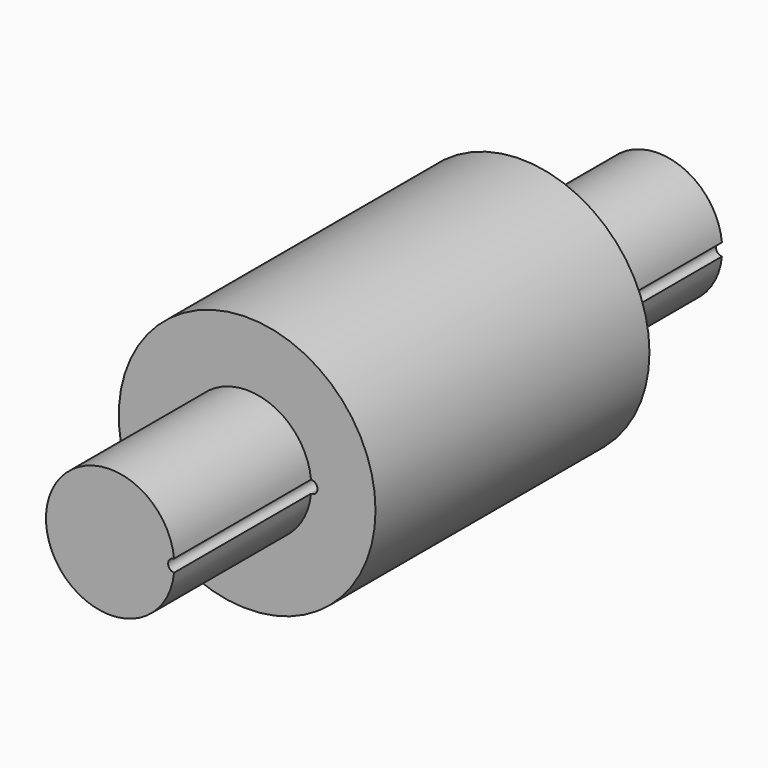
from build123d import *

# Parameters (mm, degrees)
F0_R     = 38.1
F1_DEPTH = 50.8
F2_DEPTH = 101.6


with BuildPart() as f1:
    # F0 (on Front) → F1 (new body, symmetric)
    with BuildSketch(Plane.XZ):
        Circle(F0_R)
        with BuildLine():
            ThreePointArc((18.960904, -1.840275), (-19.05, 0), (18.960904, 1.840275))
            ThreePointArc((18.960904, 1.840275), (20.320905, 1.333924), (20.892431, 0))
            ThreePointArc((20.892431, 0), (20.320905, -1.333924), (18.960904, -1.840275))
        make_face(mode=Mode.SUBTRACT)
    extrude(amount=F1_DEPTH, both=True)


with BuildPart() as f2:
    # F0 (on Front) → F2 (new body, symmetric)
    with BuildSketch(Plane.XZ):
        with BuildLine():
            ThreePointArc((18.960904, -1.840275), (17.207569, 0), (18.960904, 1.840275))
            ThreePointArc((18.960904, 1.840275), (-19.05, 0), (18.960904, -1.840275))
        make_face()
    extrude(amount=F2_DEPTH, both=True)


solid = Compound([f1.part, f2.part])
